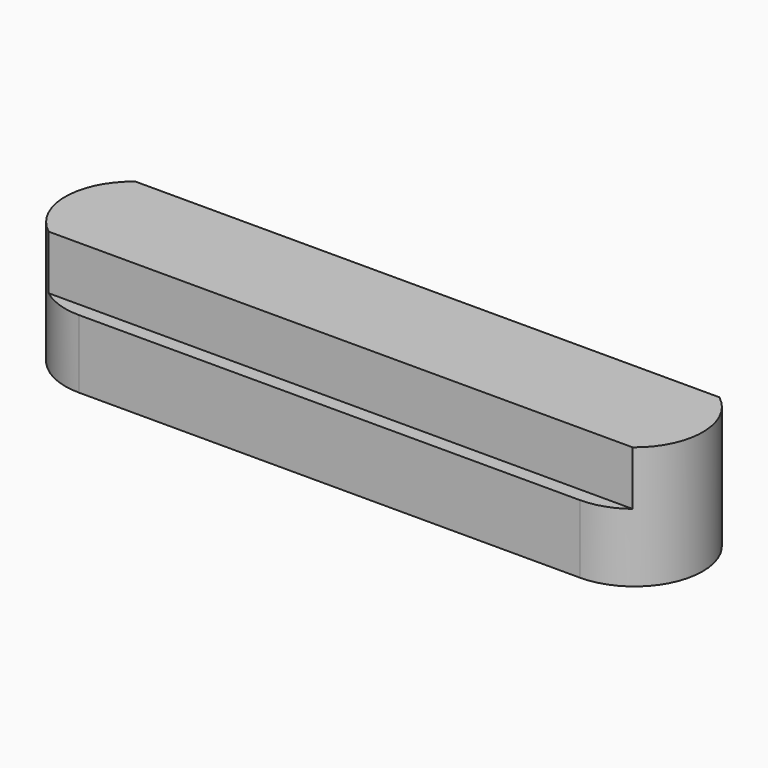
from build123d import *

# Parameters (mm, degrees)
F2_DEPTH = 15
F3_DEPTH = 3


with BuildPart() as f2:
    # F0 (on Right) → F2 (new body, symmetric)
    with BuildSketch(Plane.YZ):
        Polygon((2.38125, 0), (2.38125, 2.38125), (-2.38125, 2.38125), (-2.38125, 0), (-3, 0), (-3, -3), (3, -3), (3, 0), align=None)
    extrude(amount=F2_DEPTH, both=True)

    # F1 (on Top) → F3 (cut, symmetric)
    with BuildSketch(Plane.XY):
        with BuildLine():
            ThreePointArc((-11, -3), (-14, 0), (-11, 3))
            Line((-11, 3), (-11, 9.35))
            ThreePointArc((-11, 9.35), (-20.35, 0), (-11, -9.35))
            Line((-11, -9.35), (-11, -3))
        make_face()
        with BuildLine():
            ThreePointArc((11, 3), (14, 0), (11, -3))
            Line((11, -3), (11, -9.35))
            ThreePointArc((11, -9.35), (20.35, 0), (11, 9.35))
            Line((11, 9.35), (11, 3))
        make_face()
    extrude(amount=F3_DEPTH, both=True, mode=Mode.SUBTRACT)


solid = f2.part
